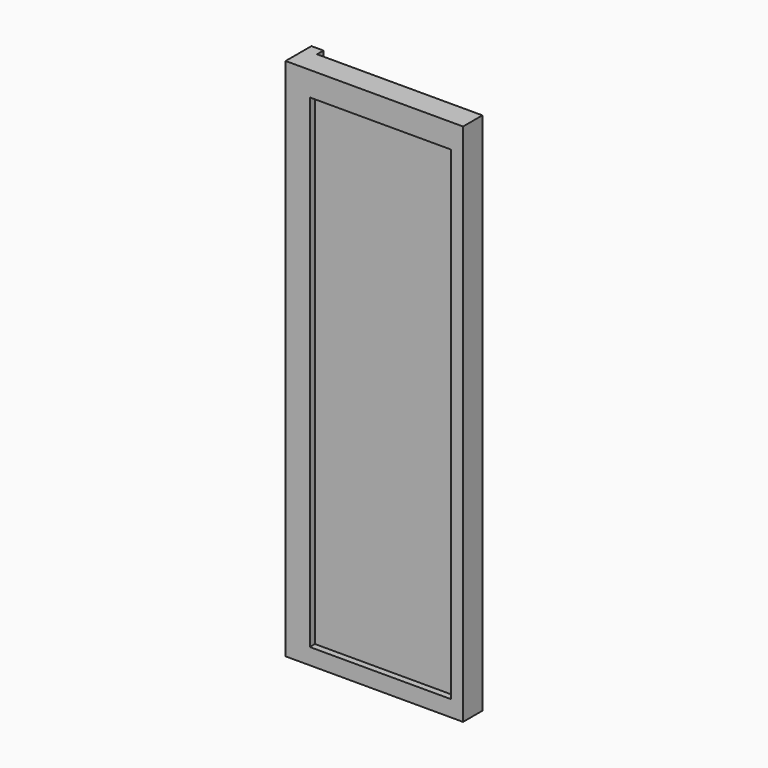
from build123d import *

# Parameters (mm, degrees)
F0_W     = 220
F0_H     = 650
F1_DEPTH = 30
F2_W     = 175
F2_H     = 600
F3_DEPTH = 8
F4_W     = 15
F4_H     = 650
F5_DEPTH = 10


with BuildPart() as f1:
    # F0 (on Front) → F1 (new body)
    with BuildSketch(Plane.XZ):
        with Locations((110, 325)):
            Rectangle(F0_W, F0_H)
    extrude(amount=F1_DEPTH)

    # F2 (on face) → F3 (cut)
    with BuildSketch(Plane.XZ.offset(30)):
        with Locations((117.5, 320)):
            Rectangle(F2_W, F2_H)
    extrude(amount=-F3_DEPTH, mode=Mode.SUBTRACT)

    # F4 (on face) → F5 (join)
    with BuildSketch(Plane.XZ):
        with Locations((7.5, 325)):
            Rectangle(F4_W, F4_H)
    extrude(amount=-F5_DEPTH)


solid = f1.part
